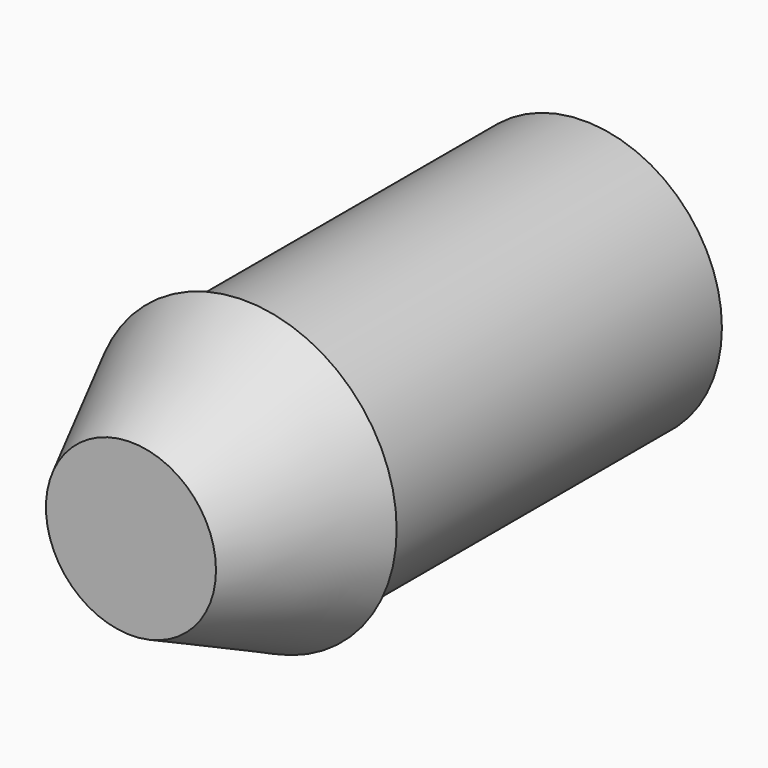
from build123d import *

# Parameters (mm, degrees)
F0_R     = 4.85
F1_DEPTH = 15
F5_R     = 3
F3_R     = 5.375


with BuildPart() as f1:
    # F0 (on Front) → F1 (new body)
    with BuildSketch(Plane.XZ):
        Circle(F0_R)
    extrude(amount=F1_DEPTH)

    # F5 (on offset) → F6 section 0
    with BuildSketch(Plane.XZ.offset(20)):
        Circle(F5_R)
    # F3 (on offset) → F6 section 1
    with BuildSketch(Plane.XZ.offset(15)):
        Circle(F3_R)
    loft()


solid = f1.part
